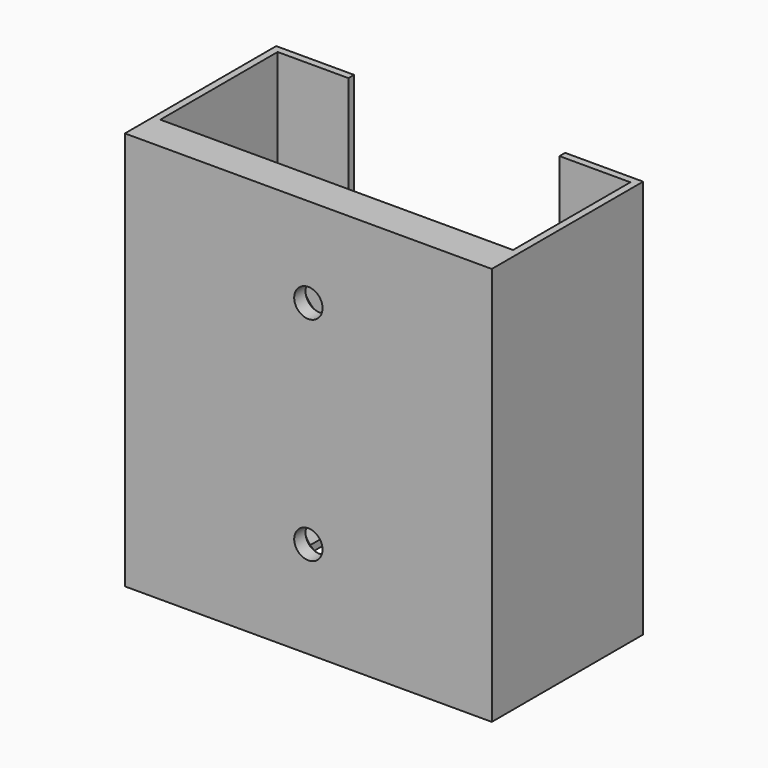
from build123d import *

# Parameters (mm, degrees)
PAD_DEPTH    = 55.3
PAD001_DEPTH = 1
SKETCH002_R  = 2
HOLE_DEPTH   = 25
SKETCH003_R  = 5
POCKET_DEPTH = 3


with BuildPart() as part:
    # Sketch → Pad (new body)
    with BuildSketch(Plane.XY):
        Polygon((0, 0), (0, 20.7), (10, 20.7), (10, 21.7), (-1, 21.7), (-1, -5), (50.8, -5), (50.8, 21.7), (39.8, 21.7), (39.8, 20.7), (49.8, 20.7), (49.8, 0), align=None)
    extrude(amount=PAD_DEPTH)

    # Sketch001 (on Face13 of Pad) → Pad001 (join)
    with BuildSketch(Plane(origin=(0, 0, 0), x_dir=(1, 0, 0), z_dir=(0, 0, -1))):
        Polygon((-1, 5), (50.8, 5), (50.8, -21.7), (39.8, -21.7), (39.8, 0), (10, 0), (10, -21.7), (-1, -21.7), align=None)
    extrude(amount=PAD001_DEPTH)

    # Sketch002 (on Face14 of Pad001) → Hole (cut)
    with BuildSketch(Plane(origin=(0, 0, 0), x_dir=(-1, 0, 0), z_dir=(0, 1, 0))):
        with Locations((-24.9, 42.65)):
            Circle(SKETCH002_R)
        with Locations((-24.9, 12.65)):
            Circle(SKETCH002_R)
    extrude(amount=-HOLE_DEPTH, mode=Mode.SUBTRACT)

    # Sketch003 (on Face14 of Pad001) → Pocket (cut)
    with BuildSketch(Plane(origin=(0, 0, 0), x_dir=(-1, 0, 0), z_dir=(0, 1, 0))):
        with Locations((-24.9, 42.65)):
            Circle(SKETCH003_R)
        with Locations((-24.9, 12.65)):
            Circle(SKETCH003_R)
    extrude(amount=-POCKET_DEPTH, mode=Mode.SUBTRACT)


solid = part.part
